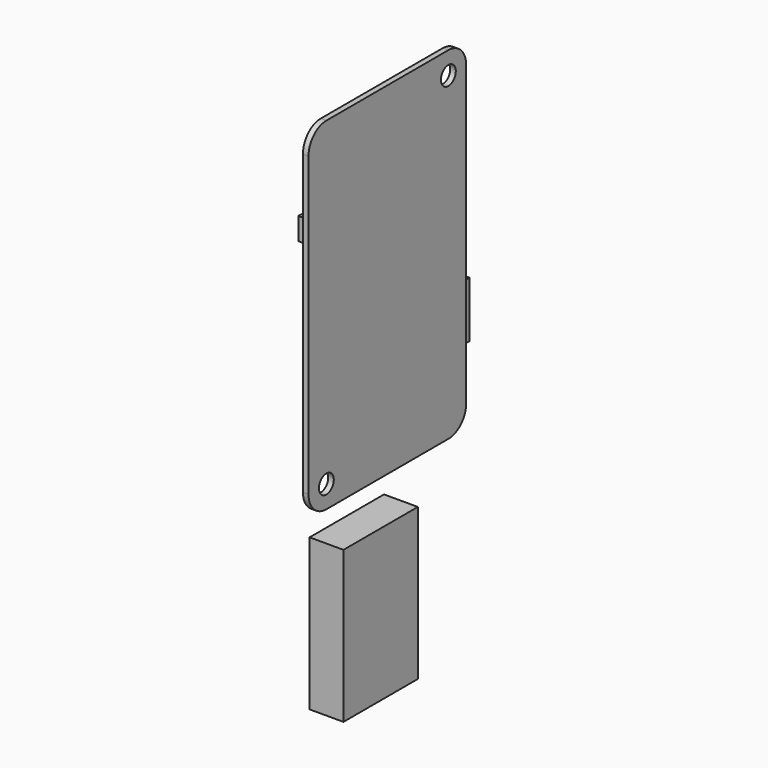
from build123d import *

# Parameters (mm, degrees)
F0_W     = 53
F0_H     = 92
F0_R     = 2.5
F1_DEPTH = 1.5
F2_R     = 6
F3_W     = 6
F3_H     = 6
F4_DEPTH = 6
F5_W     = 3
F5_H     = 15
F5_W_2   = 15
F6_DEPTH = 2
F7_W     = 9.1028660536
F7_H     = 40.7233629376
F8_DEPTH = 25


with BuildPart() as f1:
    # F0 (on Right) → F1 (new body)
    with BuildSketch(Plane.YZ):
        with Locations((26.5, 46)):
            Rectangle(F0_W, F0_H)
        with Locations((6, 6)):
            Circle(F0_R, mode=Mode.SUBTRACT)
        with Locations((47, 86)):
            Circle(F0_R, mode=Mode.SUBTRACT)
    extrude(amount=F1_DEPTH)

    # F2
    f2_edges = [f1.edges().sort_by_distance(p)[0] for p in [
        (0.75, 0, 92),
        (0.75, 53, 92),
        (0.75, 53, 0),
        (0.75, 0, 0),
    ]]
    fillet(f2_edges, radius=F2_R)

    # F3 (on face) → F4 (join)
    with BuildSketch(Plane(origin=(0, 0, 0), x_dir=(0, -1, 0), z_dir=(-1, 0, 0))):
        with Locations((-9, 64)):
            Rectangle(F3_W, F3_H)
    extrude(amount=F4_DEPTH)

    # F5 (on face) → F6 (join)
    with BuildSketch(Plane(origin=(0, 0, 0), x_dir=(0, -1, 0), z_dir=(-1, 0, 0))):
        with Locations((-54.5, 26.5)):
            Rectangle(F5_W, F5_H)
        with Locations((-45.5, 26.5)):
            Rectangle(F5_W_2, F5_H)
    extrude(amount=F6_DEPTH)


with BuildPart() as f8:
    # F7 (on Front) → F8 (new body)
    with BuildSketch(Plane.XZ):
        with Locations((26.3504125178, -7.7893463895)):
            Rectangle(F7_W, F7_H)
    extrude(amount=F8_DEPTH)


solid = Compound([f1.part, f8.part])
